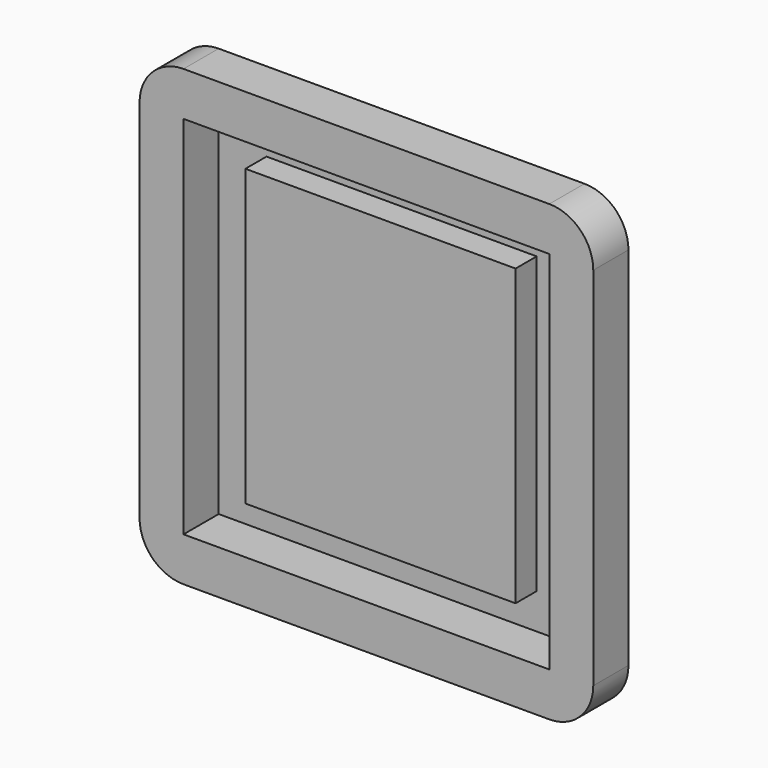
from build123d import *

# Parameters (mm, degrees)
F0_W     = 52.832
F0_H     = 52.832
F1_DEPTH = 6.35
F0_W_2   = 39.0196554363
F0_H_2   = 42.5668954849
F2_DEPTH = 3.81
F3_DEPTH = 3.81
F4_T     = -1.27


with BuildPart() as f1:
    # F0 (on Front) → F1 (new body)
    with BuildSketch(Plane.XZ):
        with BuildLine():
            ThreePointArc((-32.766, -26.416), (-30.9061280605, -30.9061280605), (-26.416, -32.766))
            Line((-26.416, -32.766), (26.416, -32.766))
            ThreePointArc((26.416, -32.766), (30.9061280605, -30.9061280605), (32.766, -26.416))
            Line((32.766, -26.416), (32.766, 26.416))
            ThreePointArc((32.766, 26.416), (30.9061280605, 30.9061280605), (26.416, 32.766))
            Line((26.416, 32.766), (-26.416, 32.766))
            ThreePointArc((-26.416, 32.766), (-30.9061280605, 30.9061280605), (-32.766, 26.416))
            Line((-32.766, 26.416), (-32.766, -26.416))
        make_face()
        Rectangle(F0_W, F0_H, mode=Mode.SUBTRACT)
    extrude(amount=F1_DEPTH)

    # F4
    f4_openings = [f1.faces().sort_by_distance(p)[0] for p in [
        (-30.250808, 0, -30.250808),
    ]]
    offset(amount=F4_T, openings=f4_openings, kind=Kind.INTERSECTION)


with BuildPart() as f2:
    # F0 (on Front) → F2 (new body)
    with BuildSketch(Plane.XZ):
        Rectangle(F0_W, F0_H)
        Rectangle(F0_W_2, F0_H_2, mode=Mode.SUBTRACT)
        Rectangle(F0_W_2, F0_H_2)
    extrude(amount=-F2_DEPTH)

    # F0 (on Front) → F3 (join)
    with BuildSketch(Plane.XZ):
        Rectangle(F0_W_2, F0_H_2)
    extrude(amount=F3_DEPTH)


solid = Compound([f1.part, f2.part])
